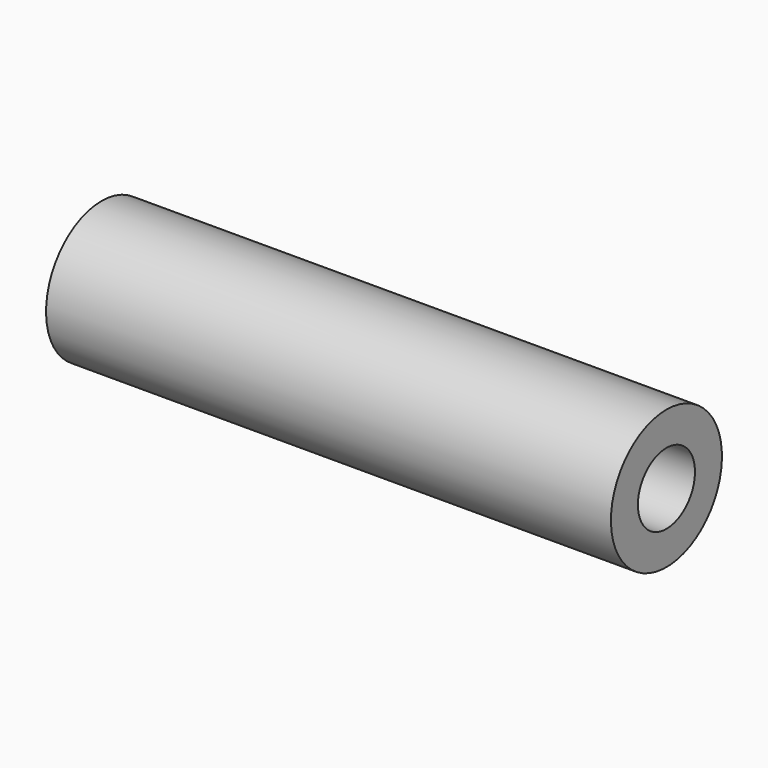
from build123d import *

# Parameters (mm, degrees)
F0_W     = 57
F0_H     = 7
F3_D     = 7.2
F3_DEPTH = 20
F3_TIP   = 2.1630982285
F5_D     = 7.2
F5_DEPTH = 20
F5_TIP   = 2.1630982285


with BuildPart() as f1:
    # F0 (on Front) → F1 (revolve)
    with BuildSketch(Plane.XZ):
        with Locations((0, 3.5)):
            Rectangle(F0_W, F0_H)
    revolve(axis=Axis((-4.6887677163, 0, 0), (1, 0, 0)))

    # F3
    with Locations(Plane.YZ.offset(28.5)):
        with Locations((0, 0)):
            Hole(F3_D / 2, depth=F3_DEPTH)
            with Locations((0, 0, -(F3_DEPTH + F3_TIP / 2))):  # 118° drill point
                Cone(0, F3_D / 2, F3_TIP, mode=Mode.SUBTRACT)

    # F5
    with Locations(Plane(origin=(-28.5, 0, 0), x_dir=(0, -1, 0), z_dir=(-1, 0, 0))):
        with Locations((0, 0)):
            Hole(F5_D / 2, depth=F5_DEPTH)
            with Locations((0, 0, -(F5_DEPTH + F5_TIP / 2))):  # 118° drill point
                Cone(0, F5_D / 2, F5_TIP, mode=Mode.SUBTRACT)


solid = f1.part
